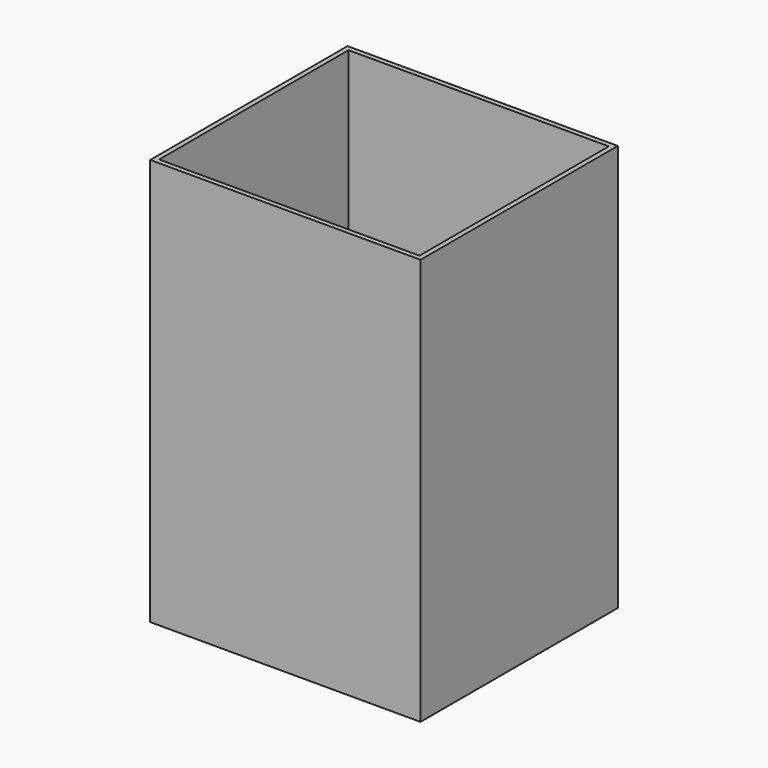
from build123d import *

# Parameters (mm, degrees)
F0_W     = 136.9934380054
F0_H     = 98.2272103429
F1_DEPTH = 125
F2_DEPTH = 108
F3_T     = -2.5


with BuildPart() as f1:
    # F0 (on Front) → F1 (new body)
    with BuildSketch(Plane.XZ):
        Rectangle(F0_W, F0_H)
    extrude(amount=F1_DEPTH)

    # F2 (add): a face of the model
    f2_faces = [f1.faces().sort_by_distance(p)[0] for p in [
        (0, -62.5, 49.1136051714),
    ]]
    extrude(f2_faces, amount=F2_DEPTH)

    # F3
    f3_openings = [f1.faces().sort_by_distance(p)[0] for p in [
        (0, -62.5, 157.113605),
    ]]
    offset(amount=F3_T, openings=f3_openings)


solid = f1.part
